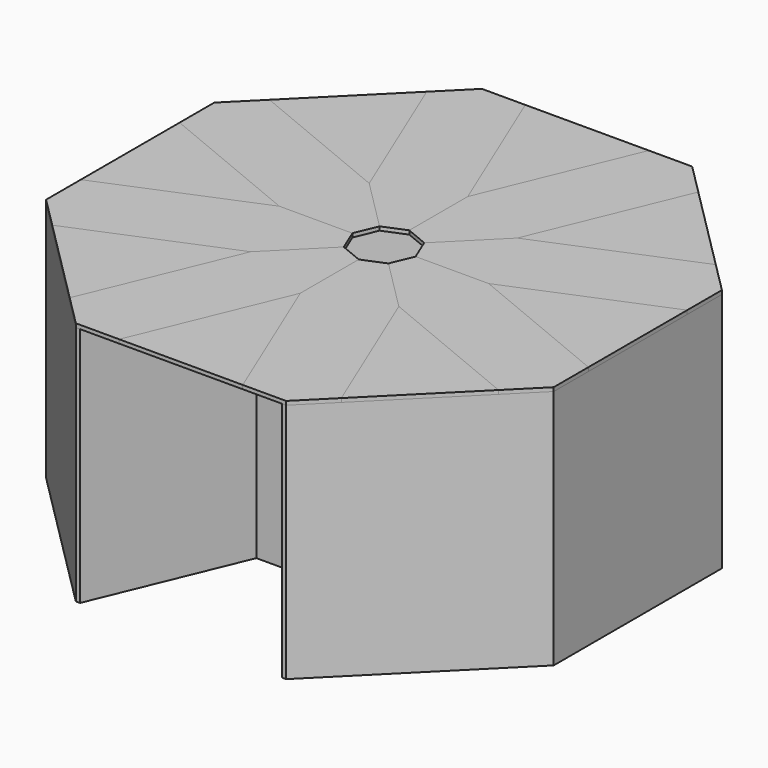
from build123d import *

# Parameters (mm, degrees)
F1_DEPTH  = 190
F3_DEPTH  = 3
F5_DEPTH  = 3
F7_COUNT  = 8
F9_DEPTH  = 190
F11_DEPTH = 190


with BuildPart() as f1:
    # F0 (on Top) → F1 (new body)
    with BuildSketch(Plane.XY):
        Polygon((200, -82.842712), (200, 82.842712), (82.842712, 200), (-82.842712, 200), (-200, 82.842712), (-200, -82.842712), (-82.842712, -200), (82.842712, -200), align=None)
        Polygon((34.172619, 82.5), (82.5, 34.172619), (82.5, -34.172619), (34.172619, -82.5), (-34.172619, -82.5), (-82.5, -34.172619), (-82.5, 34.172619), (-34.172619, 82.5), align=None, mode=Mode.SUBTRACT)
    extrude(amount=F1_DEPTH)

    # F8 (on face) → F9 (cut, through all)
    with BuildSketch(Plane(origin=(0, 0, 0), x_dir=(1, 0, 0), z_dir=(0, 0, -1))):
        Polygon((32.168083, 85.5), (79.595536, 200), (-79.595536, 200), (-32.168083, 85.5), align=None)
    extrude(amount=-F9_DEPTH, mode=Mode.SUBTRACT)

    # F10 (on face) → F11 (cut, through all)
    with BuildSketch(Plane(origin=(0, 0, 0), x_dir=(1, 0, 0), z_dir=(0, 0, -1))):
        Polygon((-35.41526, -85.5), (-79.514931, -41.400329), (-79.842706, -200), (79.842706, -200), (79.514931, -41.400329), (35.41526, -85.5), align=None)
    extrude(amount=-F11_DEPTH, mode=Mode.SUBTRACT)


with BuildPart() as f3:
    # F2 (on face) → F3 (new body)
    with BuildSketch(Plane.XY.offset(190)):
        Polygon((48.670094, -200), (0, -82.5), (-48.670094, -200), align=None)
        Polygon((175.836309, -107.006403), (58.336309, -58.336309), (107.006403, -175.836309), align=None)
        Polygon((200, 48.670094), (82.5, 0), (200, -48.670094), align=None)
        Polygon((107.006403, 175.836309), (58.336309, 58.336309), (175.836309, 107.006403), align=None)
        Polygon((-48.670094, 200), (0, 82.5), (48.670094, 200), align=None)
        Polygon((-175.836309, 107.006403), (-58.336309, 58.336309), (-107.006403, 175.836309), align=None)
        Polygon((-200, -48.670094), (-82.5, 0), (-200, 48.670094), align=None)
        Polygon((-107.006403, -175.836309), (-58.336309, -58.336309), (-175.836309, -107.006403), align=None)
    extrude(amount=F3_DEPTH)


with BuildPart() as f5:
    # F4 (on face) → F5 (new body)
    with BuildSketch(Plane.XY.offset(190)):
        Polygon((34.172619, 82.5), (0, 82.5), (0, 24.895021), (17.603438, 17.603438), (58.336309, 58.336309), align=None)
        Polygon((48.670094, 200), (0, 82.5), (34.172619, 82.5), (58.336309, 58.336309), (107.006403, 175.836309), (82.842712, 200), align=None)
    extrude(amount=F5_DEPTH)


with BuildPart() as f7_1:
    # F7: instance of F5
    add(f5.part.rotate(Axis((0, 0, 99.609084), (0, 0, 1)), 1 * 360 / F7_COUNT))


with BuildPart() as f7_2:
    # F7: instance of F5
    add(f5.part.rotate(Axis((0, 0, 99.609084), (0, 0, 1)), 2 * 360 / F7_COUNT))


with BuildPart() as f7_3:
    # F7: instance of F5
    add(f5.part.rotate(Axis((0, 0, 99.609084), (0, 0, 1)), 3 * 360 / F7_COUNT))


with BuildPart() as f7_4:
    # F7: instance of F5
    add(f5.part.rotate(Axis((0, 0, 99.609084), (0, 0, 1)), 4 * 360 / F7_COUNT))


with BuildPart() as f7_5:
    # F7: instance of F5
    add(f5.part.rotate(Axis((0, 0, 99.609084), (0, 0, 1)), 5 * 360 / F7_COUNT))


with BuildPart() as f7_6:
    # F7: instance of F5
    add(f5.part.rotate(Axis((0, 0, 99.609084), (0, 0, 1)), 6 * 360 / F7_COUNT))


with BuildPart() as f7_7:
    # F7: instance of F5
    add(f5.part.rotate(Axis((0, 0, 99.609084), (0, 0, 1)), 7 * 360 / F7_COUNT))


solid = Compound([f1.part, f3.part, f5.part, f7_1.part, f7_2.part, f7_3.part, f7_4.part, f7_5.part, f7_6.part, f7_7.part])
